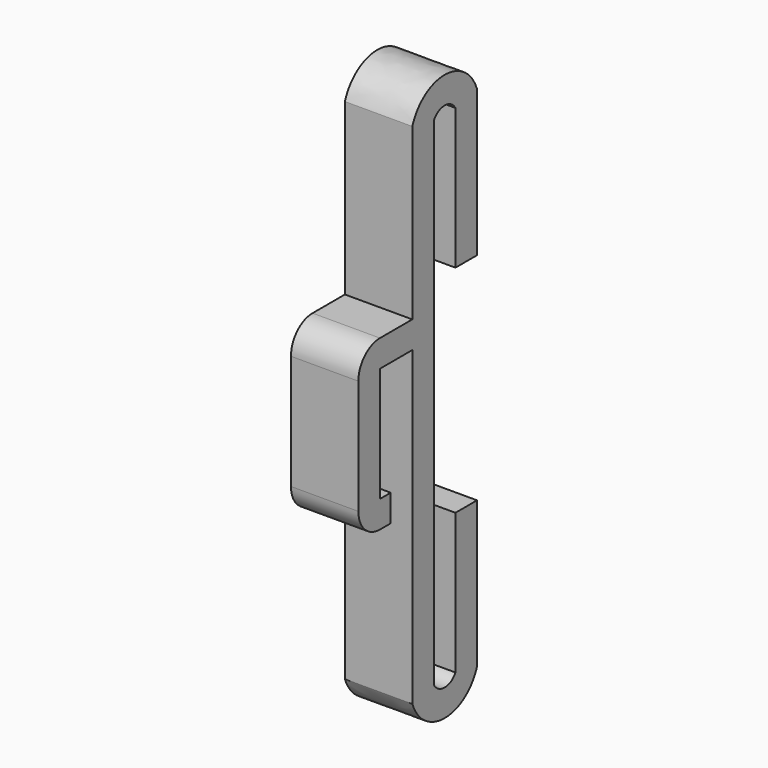
from build123d import *

# Parameters (mm, degrees)
F2_W      = 5
F2_H      = 2
F5_W      = 5
F5_H      = 12.5
F6_DEPTH  = 5
F7_W      = 3
F7_H      = 8.5
F8_DEPTH  = 5.0010001
F9_W      = 5
F9_H      = 2
F10_DEPTH = 2
F11_R     = 2


with BuildPart() as f3:
    # F3: sweep along a path in F1
    with BuildLine(Plane.YZ) as f3_path:
        Line((4, 8), (4, 18.6544566876))
        ThreePointArc((4, 18.6544566876), (2, 20), (0, 18.6544566876))
        Line((0, 18.6544566876), (0, 0))
        Line((0, 0), (0, -18.6544566876))
        ThreePointArc((0, -18.6544566876), (2, -20), (4, -18.6544566876))
        Line((4, -18.6544566876), (4, -8))
    # F2 (on Top) → F3 (sweep)
    with BuildSketch(Plane.XY):
        Rectangle(F2_W, F2_H)
    sweep(path=f3_path.line, transition=Transition.RIGHT)

    # F5 (on face) → F6 (join)
    with BuildSketch(Plane.XZ.offset(1)):
        Rectangle(F5_W, F5_H)
    extrude(amount=F6_DEPTH)

    # F7 (on face) → F8 (cut, through all)
    with BuildSketch(Plane.YZ.offset(2.5)):
        with Locations((-2.5, 0)):
            Rectangle(F7_W, F7_H)
    extrude(amount=-F8_DEPTH, mode=Mode.SUBTRACT)

    # F9 (on face) → F10 (cut, through all)
    with BuildSketch(Plane(origin=(0, 0, -6.25), x_dir=(1, 0, 0), z_dir=(0, 0, -1))):
        with Locations((0, 2)):
            Rectangle(F9_W, F9_H)
    extrude(amount=-F10_DEPTH, mode=Mode.SUBTRACT)

    # F11
    f11_edges = [f3.edges().sort_by_distance(p)[0] for p in [
        (0, -6, 6.25),
        (0, -6, -6.25),
    ]]
    fillet(f11_edges, radius=F11_R)


solid = f3.part
